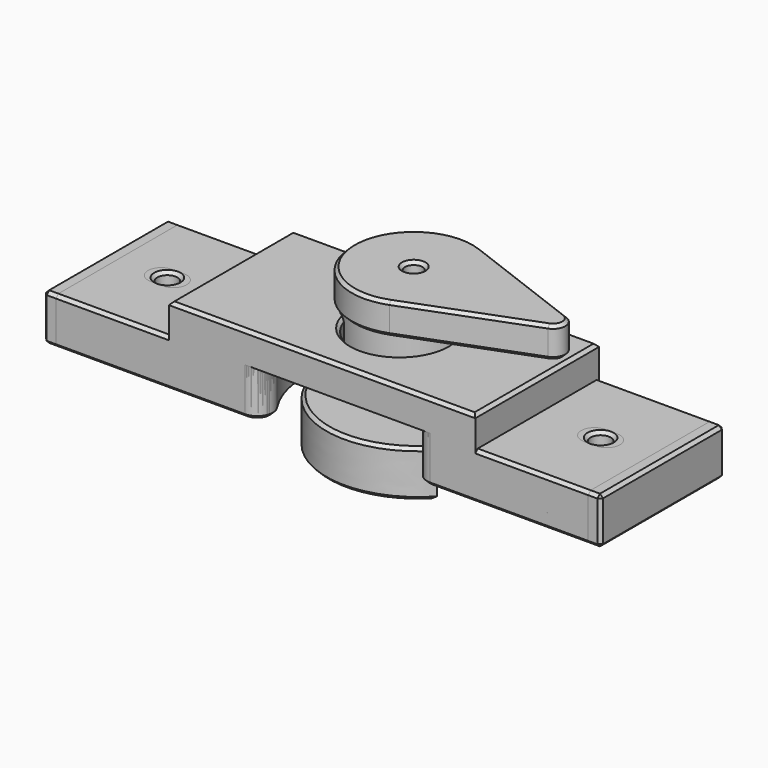
from build123d import *

# Parameters (mm, degrees)
SKETCH002_W     = 180
SKETCH002_H     = 50
PAD_DEPTH       = 15
SKETCH003_W     = 99
SKETCH003_H     = 50
PAD001_DEPTH    = 10
SKETCH004_R     = 15
POCKET_DEPTH    = 25.001
SKETCH005_R     = 31
POCKET001_DEPTH = 15
SKETCH006_R     = 3.25
POCKET002_DEPTH = 15.001
POCKET003_DEPTH = 4.5
FILLET_R        = 5
CHAMFER_SIZE    = 1
PAD011_DEPTH    = 15
POCKET009_DEPTH = 7
SKETCH024_R     = 3.2
POCKET010_DEPTH = 8.001
CHAMFER002_SIZE = 1
PAD003_DEPTH    = 6
SKETCH009_R     = 14.75
PAD004_DEPTH    = 20
PAD005_DEPTH    = 10
SKETCH011_R     = 2.8
POCKET004_DEPTH = 36.001
CHAMFER001_SIZE = 1
SKETCH025_R     = 19
SKETCH025_R_2   = 14.75
PAD012_DEPTH    = 10
SKETCH028_W     = 174
SKETCH028_H     = 50
PAD013_DEPTH    = 15
SKETCH029_W     = 99
SKETCH029_H     = 50
PAD014_DEPTH    = 10
SKETCH030_R     = 15
POCKET011_DEPTH = 25.001
SKETCH031_R     = 31
POCKET012_DEPTH = 15
POCKET013_DEPTH = 15.001
POCKET014_DEPTH = 5
FILLET001_R     = 5
CHAMFER003_SIZE = 1


with BuildPart() as new_carrier:
    # Sketch002 → Pad (new body)
    with BuildSketch(Plane.XY):
        Rectangle(SKETCH002_W, SKETCH002_H)
    extrude(amount=PAD_DEPTH)

    # Sketch003 (on Face6 of Pad) → Pad001 (join)
    with BuildSketch(Plane.XY.offset(15)):
        Rectangle(SKETCH003_W, SKETCH003_H)
    extrude(amount=PAD001_DEPTH)

    # Sketch004 (on Face12 of Pad001) → Pocket (cut, through all)
    with BuildSketch(Plane.XY.offset(25)):
        with Locations((5, 0)):
            Circle(SKETCH004_R)
    extrude(amount=-POCKET_DEPTH, mode=Mode.SUBTRACT)

    # Sketch005 (on Face4 of Pocket) → Pocket001 (cut)
    with BuildSketch(Plane(origin=(0, 0, 0), x_dir=(1, 0, 0), z_dir=(0, 0, -1))):
        with Locations((5, 0)):
            Circle(SKETCH005_R)
    extrude(amount=-POCKET001_DEPTH, mode=Mode.SUBTRACT)

    # Sketch006 (on Face15 of Pocket001) → Pocket002 (cut, through all)
    with BuildSketch(Plane.XY.offset(15)):
        with Locations((70, 0)):
            Circle(SKETCH006_R)
        with Locations((-70, 0)):
            Circle(SKETCH006_R)
    extrude(amount=-POCKET002_DEPTH, mode=Mode.SUBTRACT)

    # Sketch007 (on Face4 of Pocket002) → Pocket003 (cut)
    with BuildSketch(Plane(origin=(0, 0, 0), x_dir=(1, 0, 0), z_dir=(0, 0, -1))):
        Polygon((76.581793, 0), (73.290897, 5.7), (66.709103, 5.7), (63.418207, 0), (66.709103, -5.7), (73.290897, -5.7), align=None)
        Polygon((-66.709103, -5.7), (-63.418207, 0), (-66.709103, 5.7), (-73.290897, 5.7), (-76.581793, 0), (-73.290897, -5.7), align=None)
    extrude(amount=-POCKET003_DEPTH, mode=Mode.SUBTRACT)

    # Fillet
    fillet_edges = [new_carrier.edges().sort_by_distance(p)[0] for p in [
        (-13.330303, -25, 7.5),
        (-13.330303, 25, 7.5),
        (23.330303, 25, 7.5),
        (23.330303, -25, 7.5),
    ]]
    fillet(fillet_edges, radius=FILLET_R)

    # Chamfer
    chamfer_edges = [new_carrier.edges().sort_by_distance(p)[0] for p in [
        (-57.46663, -25, 0),
        (-24.933259, -25, 7.5),
        (-90, -25, 7.5),
        (-19.131781, -25, 15),
        (-69.75, -25, 15),
        (5, -25, 15),
        (-49.5, -25, 20),
        (29.131781, -25, 15),
        (0, -25, 25),
        (34.933259, -25, 7.5),
        (49.5, -25, 20),
        (62.46663, -25, 0),
        (69.75, -25, 15),
        (90, -25, 7.5),
        (-57.46663, 25, 0),
        (-24.933259, 25, 7.5),
        (-90, 25, 7.5),
        (-19.131781, 25, 15),
        (-69.75, 25, 15),
        (5, 25, 15),
        (-49.5, 25, 20),
        (29.131781, 25, 15),
        (0, 25, 25),
        (34.933259, 25, 7.5),
        (49.5, 25, 20),
        (62.46663, 25, 0),
        (69.75, 25, 15),
        (90, 25, 7.5),
        (-10, 0, 15),
        (30.523674, 22.357023, 0),
        (90, 0, 0),
        (34.66523, 8.998563, 0),
        (34.66523, -8.998563, 0),
        (30.523674, -22.357023, 0),
        (74.936345, 2.85, 0),
        (70, 5.7, 0),
        (65.063655, 2.85, 0),
        (65.063655, -2.85, 0),
        (70, -5.7, 0),
        (74.936345, -2.85, 0),
        (-20.523674, 22.357023, 0),
        (-90, 0, 0),
        (-26, 0, 0),
        (-20.523674, -22.357023, 0),
        (-70, 5.7, 0),
        (-74.936345, 2.85, 0),
        (-74.936345, -2.85, 0),
        (-70, -5.7, 0),
        (-65.063655, -2.85, 0),
        (-65.063655, 2.85, 0),
        (66.75, 0, 4.5),
        (-73.25, 0, 4.5),
        (-10, 0, 25),
        (66.75, 0, 15),
        (-73.25, 0, 15),
        (49.5, 0, 25),
        (-49.5, 0, 25),
        (90, 0, 15),
        (-90, 0, 15),
    ]]
    chamfer(chamfer_edges, length=CHAMFER_SIZE)


with BuildPart() as new_cam:
    # Sketch022 → Pad011 (new body)
    with BuildSketch(Plane(origin=(0, 12, 0), x_dir=(1, 0, 0), z_dir=(0, 0, 1))):
        with BuildLine():
            add(Edge.make_bspline(
                [(18.385067, -15.426903), (25.636949, -7.451184), (29.167143, 4.188206), (26.974214, 17.612295), (18.090552, 29.751556), (3.35831, 36.969816), (-14.204536, 36.253542), (-29.939339, 26.647227), (-39.094212, 10.198881), (-39.001928, -8.479394), (-30.172825, -24.273207), (-15.683623, -33.497423), (0.297085, -34.860416), (13.998556, -29.322146), (22.981333, -19.283628)],
                knots=[0, 0, 0, 0, 0, 0, 0, 0, 0, 0, 0, 0, 0, 0, 0, 6.362265, 6.362265, 6.362265, 6.362265, 6.362265, 6.362265, 6.362265, 6.362265, 6.362265, 6.362265, 6.362265, 6.362265, 6.362265, 6.362265, 6.362265], degree=14))
            Line((22.981333, -19.283628), (18.385067, -15.426903))
        make_face()
    extrude(amount=-PAD011_DEPTH)

    # Sketch023 (on Face3 of Pad011) → Pocket009 (cut)
    with BuildSketch(Plane(origin=(0, 12, 0), x_dir=(1, 0, 0), z_dir=(0, 0, 1))):
        Polygon((0, -11.547005), (10, -5.773503), (10, 5.773503), (0, 11.547005), (-10, 5.773503), (-10, -5.773503), align=None)
    extrude(amount=-POCKET009_DEPTH, mode=Mode.SUBTRACT)

    # Sketch024 (on Face11 of Pocket009) → Pocket010 (cut, through all)
    with BuildSketch(Plane(origin=(0, 12, -7), x_dir=(1, 0, 0), z_dir=(0, 0, 1))):
        Circle(SKETCH024_R)
    extrude(amount=-POCKET010_DEPTH, mode=Mode.SUBTRACT)

    # Chamfer002
    chamfer002_edges = [new_cam.edges().sort_by_distance(p)[0] for p in [
        (-23.516179, 25.600665, 0),
        (20.6832, -5.355266, 0),
        (5, 3.339746, 0),
        (10, 12, 0),
        (5, 20.660254, 0),
        (-5, 20.660254, 0),
        (-10, 12, 0),
        (-5, 3.339746, 0),
        (-3.2, 12, -7),
        (-23.516179, 25.600665, -15),
        (20.6832, -5.355266, -15),
        (-3.2, 12, -15),
    ]]
    chamfer(chamfer002_edges, length=CHAMFER002_SIZE)


with BuildPart() as lever:
    # Sketch008 → Pad003 (new body)
    with BuildSketch(Plane.XY):
        Polygon((0, -11.25833), (9.75, -5.629165), (9.75, 5.629165), (0, 11.25833), (-9.75, 5.629165), (-9.75, -5.629165), align=None)
    extrude(amount=PAD003_DEPTH)

    # Sketch009 (on Face8 of Pad003) → Pad004 (join)
    with BuildSketch(Plane.XY.offset(6)):
        Circle(SKETCH009_R)
    extrude(amount=PAD004_DEPTH)

    # Sketch010 (on Face3 of Pad004) → Pad005 (join)
    with BuildSketch(Plane.XY.offset(26)):
        with BuildLine():
            ThreePointArc((7.111111, 18.693103), (-20, 0), (7.111111, -18.693103))
            Line((46.422222, -3.738621), (7.111111, -18.693103))
            ThreePointArc((46.422222, -3.738621), (49, 0), (46.422222, 3.738621))
            Line((46.422222, 3.738621), (7.111111, 18.693103))
        make_face()
    extrude(amount=PAD005_DEPTH)

    # Sketch011 (on Face5 of Pad005) → Pocket004 (cut, through all)
    with BuildSketch(Plane.XY.offset(36)):
        Circle(SKETCH011_R)
    extrude(amount=-POCKET004_DEPTH, mode=Mode.SUBTRACT)

    # Chamfer001
    chamfer001_edges = [lever.edges().sort_by_distance(p)[0] for p in [
        (49, 0, 36),
        (26.766667, -11.215862, 36),
        (26.766667, 11.215862, 36),
        (-20, 0, 36),
        (-2.8, 0, 36),
        (26.766667, -11.215862, 26),
        (4.875, -8.443748, 0),
        (-4.875, -8.443748, 0),
        (9.75, 0, 0),
        (-9.75, 0, 0),
        (4.875, 8.443748, 0),
        (-4.875, 8.443748, 0),
        (-2.8, 0, 0),
    ]]
    chamfer(chamfer001_edges, length=CHAMFER001_SIZE)

    # Sketch025 (on Face10 of Chamfer001) → Pad012 (join)
    with BuildSketch(Plane(origin=(0, 0, 26), x_dir=(1, 0, 0), z_dir=(0, 0, -1))):
        Circle(SKETCH025_R)
        Circle(SKETCH025_R_2, mode=Mode.SUBTRACT)
    extrude(amount=PAD012_DEPTH)


with BuildPart() as lever_1:
    # Body002 placement: moved
    add(lever.part.moved(Location((0, 12, 0))))


with BuildPart() as new_carrier_v2:
    # Sketch028 → Pad013 (new body)
    with BuildSketch(Plane.XY):
        Rectangle(SKETCH028_W, SKETCH028_H)
    extrude(amount=PAD013_DEPTH)

    # Sketch029 (on Face6 of Pad013) → Pad014 (join)
    with BuildSketch(Plane.XY.offset(15)):
        Rectangle(SKETCH029_W, SKETCH029_H)
    extrude(amount=PAD014_DEPTH)

    # Sketch030 (on Face12 of Pad014) → Pocket011 (cut, through all)
    with BuildSketch(Plane.XY.offset(25)):
        with Locations((5, 0)):
            Circle(SKETCH030_R)
    extrude(amount=-POCKET011_DEPTH, mode=Mode.SUBTRACT)

    # Sketch031 (on Face4 of Pocket011) → Pocket012 (cut)
    with BuildSketch(Plane(origin=(0, 0, 0), x_dir=(1, 0, 0), z_dir=(0, 0, -1))):
        with Locations((5, 0)):
            Circle(SKETCH031_R)
    extrude(amount=-POCKET012_DEPTH, mode=Mode.SUBTRACT)

    # Sketch032 (on Face15 of Pocket012) → Pocket013 (cut, through all)
    with BuildSketch(Plane.XY.offset(15)):
        with BuildLine():
            ThreePointArc((-72, 3.25), (-75.25, 0), (-72, -3.25))
            Line((-72, -3.25), (-68, -3.25))
            ThreePointArc((-68, -3.25), (-64.75, 0), (-68, 3.25))
            Line((-72, 3.25), (-68, 3.25))
        make_face()
        with BuildLine():
            ThreePointArc((68, 3.25), (64.75, 0), (68, -3.25))
            Line((68, -3.25), (72, -3.25))
            ThreePointArc((72, -3.25), (75.25, 0), (72, 3.25))
            Line((68, 3.25), (72, 3.25))
        make_face()
    extrude(amount=-POCKET013_DEPTH, mode=Mode.SUBTRACT)

    # Sketch033 (on Face4 of Pocket013) → Pocket014 (cut)
    with BuildSketch(Plane(origin=(0, 0, 0), x_dir=(1, 0, 0), z_dir=(0, 0, -1))):
        Polygon((-75.319764, 5.75), (-78.639528, 0), (-75.319764, -5.75), (-64.680236, -5.75), (-61.360472, 0), (-64.680236, 5.75), align=None)
        Polygon((64.680236, 5.75), (61.360472, 0), (64.680236, -5.75), (75.319764, -5.75), (78.639528, 0), (75.319764, 5.75), align=None)
    extrude(amount=-POCKET014_DEPTH, mode=Mode.SUBTRACT)

    # Fillet001
    fillet001_edges = [new_carrier_v2.edges().sort_by_distance(p)[0] for p in [
        (23.330303, 25, 7.5),
        (23.330303, -25, 7.5),
        (-13.330303, -25, 7.5),
        (-13.330303, 25, 7.5),
    ]]
    fillet(fillet001_edges, radius=FILLET001_R)

    # Chamfer003
    chamfer003_edges = [new_carrier_v2.edges().sort_by_distance(p)[0] for p in [
        (60.96663, 25, 0),
        (30.523674, 22.357023, 0),
        (87, 0, 0),
        (34.66523, 8.998563, 0),
        (60.96663, -25, 0),
        (34.66523, -8.998563, 0),
        (30.523674, -22.357023, 0),
        (70, 5.75, 0),
        (63.020354, 2.875, 0),
        (63.020354, -2.875, 0),
        (70, -5.75, 0),
        (76.979646, -2.875, 0),
        (76.979646, 2.875, 0),
        (-55.96663, 25, 0),
        (-20.523674, 22.357023, 0),
        (-87, 0, 0),
        (-26, 0, 0),
        (-55.96663, -25, 0),
        (-20.523674, -22.357023, 0),
        (-70, 5.75, 0),
        (-76.979646, 2.875, 0),
        (-76.979646, -2.875, 0),
        (-70, -5.75, 0),
        (-63.020354, -2.875, 0),
        (-63.020354, 2.875, 0),
        (-10, 0, 15),
        (-49.5, 0, 25),
        (0, -25, 25),
        (49.5, 0, 25),
        (0, 25, 25),
        (-10, 0, 25),
        (75.25, 0, 15),
        (-64.75, 0, 15),
        (-68.25, -25, 15),
        (-87, 0, 15),
        (-68.25, 25, 15),
        (68.25, -25, 15),
        (68.25, 25, 15),
        (87, 0, 15),
        (-87, 25, 7.5),
        (-87, -25, 7.5),
        (87, -25, 7.5),
        (87, 25, 7.5),
    ]]
    chamfer(chamfer003_edges, length=CHAMFER003_SIZE)


solid = Compound([new_carrier.part, new_cam.part, lever_1.part, new_carrier_v2.part])
